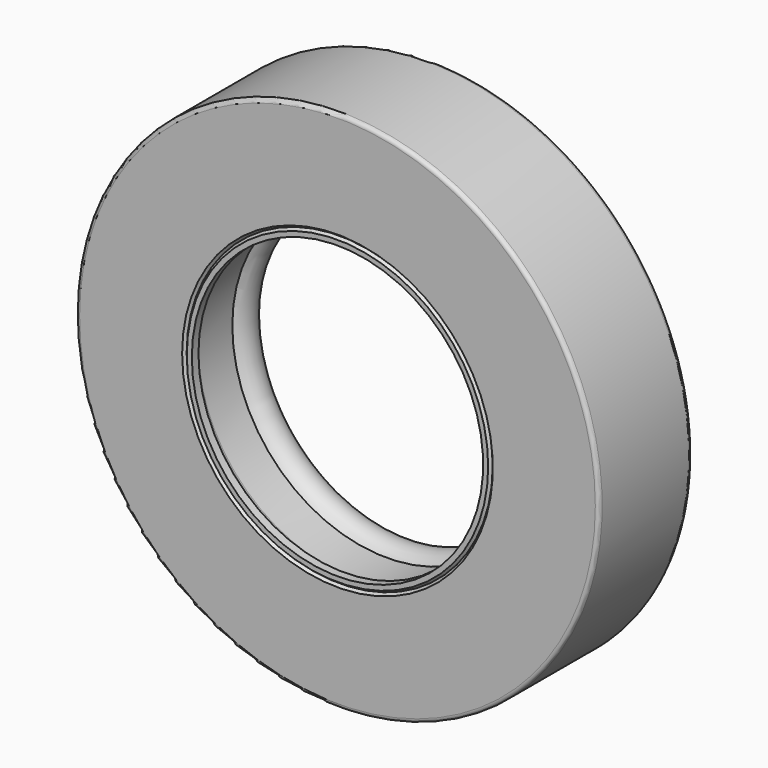
from build123d import *


with BuildPart() as f1:
    # F0 (on Top) → F1 (revolve)
    with BuildSketch(Plane.XY):
        with BuildLine():
            Line((-13.164314, 6.003878), (-13.164314, 6.140151))
            ThreePointArc((-13.164314, 6.140151), (-13.225777, 6.288537), (-13.374162, 6.35))
            Line((-13.374162, 6.35), (-14.077651, 6.35))
            ThreePointArc((-14.077651, 6.35), (-14.226037, 6.288537), (-14.2875, 6.140151))
            Line((-14.2875, 6.140151), (-14.2875, 0.209849))
            ThreePointArc((-14.2875, 0.209849), (-14.226037, 0.061463), (-14.077651, 0))
            Line((-14.077651, 0), (-8.481788, 0))
            Line((-8.481788, 0), (-8.354788, 0.148146))
            Line((-8.354788, 0.148146), (-8.227788, 0))
            Line((-8.227788, 0), (-7.95397, 0))
            Line((-7.95397, 0), (-7.95397, 0.453662))
            Line((-7.95397, 0.453662), (-8.363502, 0.877761))
            ThreePointArc((-8.363502, 0.877761), (-8.407116, 0.944923), (-8.422395, 1.023532))
            Line((-8.422395, 1.023532), (-8.422395, 3.35024))
            ThreePointArc((-8.422395, 3.35024), (-8.142475, 4.822258), (-9.635388, 4.950328))
            ThreePointArc((-9.635388, 4.950328), (-9.652398, 4.456137), (-9.158206, 4.439127))
            ThreePointArc((-9.158206, 4.439127), (-8.675781, 4.363034), (-8.8662, 3.913296))
            ThreePointArc((-8.8662, 3.913296), (-9.212936, 3.68122), (-9.346948, 3.286093))
            Line((-9.346948, 3.286093), (-9.346948, 1.545043))
            ThreePointArc((-9.346948, 1.545043), (-9.370293, 1.44885), (-9.435136, 1.37406))
            Line((-9.435136, 1.37406), (-10.623464, 0.528518))
            Line((-10.623464, 0.528518), (-13.593212, 0.528518))
            ThreePointArc((-13.593212, 0.528518), (-13.741598, 0.589982), (-13.803061, 0.738367))
            Line((-13.803061, 0.738367), (-13.803061, 5.58418))
            ThreePointArc((-13.803061, 5.58418), (-13.741598, 5.732565), (-13.593212, 5.794029))
            Line((-13.593212, 5.794029), (-13.374162, 5.794029))
            ThreePointArc((-13.374162, 5.794029), (-13.225777, 5.855492), (-13.164314, 6.003878))
        make_face()
    revolve(axis=Axis((0, 4.222262, 0), (0, 1, 0)))


solid = f1.part
